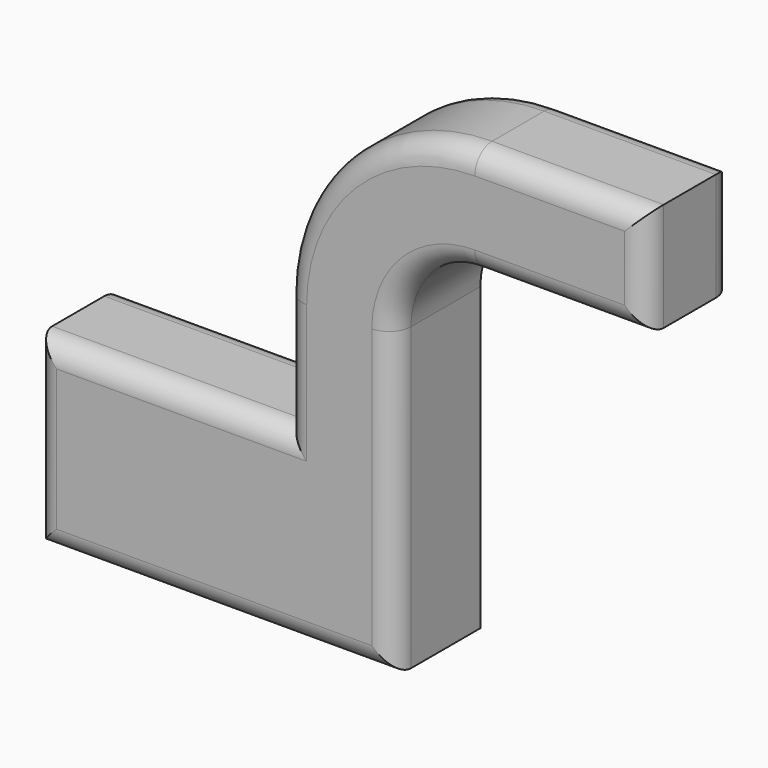
from build123d import *

# Parameters (mm, degrees)
F1_DEPTH = 25.4
F2_R     = 5.08


with BuildPart() as f1:
    # F0 (on Front) → F1 (new body)
    with BuildSketch(Plane.XZ):
        Polygon((-42.004249, 21.722563), (-42.004249, -21.456024), (41.954116, -21.456024), (41.954116, 21.722563), (16.554116, 21.722563), align=None)
        with BuildLine():
            Line((16.554116, 21.722563), (41.954116, 21.722563))
            Line((41.954116, 21.722563), (41.954116, 48.909083))
            ThreePointArc((41.954116, 48.909083), (47.521335, 62.349537), (60.961789, 67.916755))
            Line((60.961789, 67.916755), (101.124783, 67.916755))
            Line((101.124783, 67.916755), (101.124783, 93.316755))
            Line((101.124783, 93.316755), (60.961789, 93.316755))
            ThreePointArc((60.961789, 93.316755), (29.560822, 80.310049), (16.554116, 48.909083))
            Line((16.554116, 48.909083), (16.554116, 21.722563))
        make_face()
    extrude(amount=F1_DEPTH)

    # F2
    f2_edges = [f1.edges().sort_by_distance(p)[0] for p in [
        (-42.004249, -25.4, 0.133269),
        (-0.025066, -25.4, -21.456024),
        (41.954116, -25.4, 13.72653),
        (47.521335, -25.4, 62.349537),
        (81.043286, -25.4, 67.916755),
        (101.124783, -25.4, 80.616755),
        (81.043286, -25.4, 93.316755),
        (29.560822, -25.4, 80.310049),
        (16.554116, -25.4, 35.315823),
        (-12.725066, -25.4, 21.722563),
        (81.043286, 0, 93.316755),
        (-12.725066, 0, 21.722563),
        (101.124783, 0, 80.616755),
    ]]
    fillet(f2_edges, radius=F2_R)


solid = f1.part
